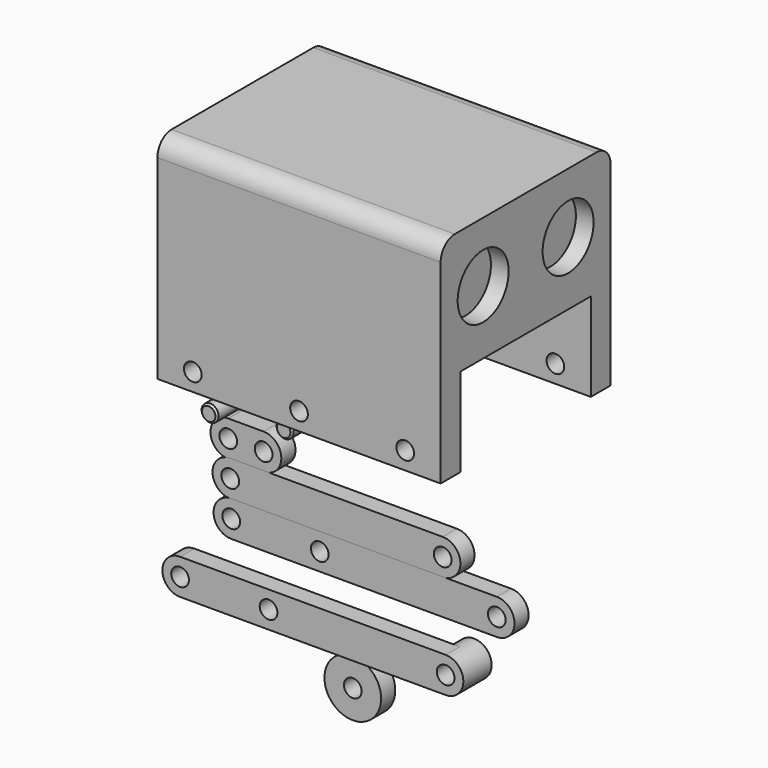
from build123d import *

# Parameters (mm, degrees)
F1_R       = 2.5
F2_DEPTH   = 5
F3_R       = 2.5
F4_DEPTH   = 5
F5_R       = 2.5
F6_DEPTH   = 5
F8_W       = 80
F8_H       = 60
F9_DEPTH   = 60
F10_R      = 2.5
F11_DEPTH  = 60.001
F12_R      = 2.4
F13_DEPTH  = 15
F14_R      = 8
F14_R_2    = 2.5
F15_DEPTH  = 5
F16_R      = 2.5
F17_DEPTH  = 10
F18_R      = 2.5
F19_DEPTH  = 5
F20_R      = 2.4
F21_DEPTH  = 10
F22_W      = 66
F22_H      = 46
F23_DEPTH  = 25
F24_W      = 46
F24_H      = 25
F25_DEPTH  = 94.5984731126
F26_R      = 9
F27_DEPTH  = 5
F28_R      = 5
F29_SIZE   = 0.5
F29_2_SIZE = 0.5


with BuildPart() as f2:
    # F1 (on Front) → F2 (new body)
    with BuildSketch(Plane.XZ):
        with BuildLine():
            Line((10, 5), (0, 5))
            ThreePointArc((0, 5), (-5, 0), (0, -5))
            Line((0, -5), (10, -5))
            ThreePointArc((10, -5), (15, 0), (10, 5))
        make_face()
        Circle(F1_R, mode=Mode.SUBTRACT)
        with Locations((10, 0)):
            Circle(F1_R, mode=Mode.SUBTRACT)
    extrude(amount=F2_DEPTH)


with BuildPart() as f4:
    # F3 (on Front) → F4 (new body)
    with BuildSketch(Plane.XZ):
        with BuildLine():
            Line((60.5706622079, -4.732673876), (0.5706622079, -4.732673876))
            ThreePointArc((0.5706622079, -4.732673876), (-4.4293377921, -9.732673876), (0.5706622079, -14.732673876))
            Line((0.5706622079, -14.732673876), (60.5706622079, -14.732673876))
            ThreePointArc((60.5706622079, -14.732673876), (65.5706622079, -9.732673876), (60.5706622079, -4.732673876))
        make_face()
        with Locations((0.5706622079, -9.732673876)):
            Circle(F3_R, mode=Mode.SUBTRACT)
        with Locations((60.5706622079, -9.732673876)):
            Circle(F3_R, mode=Mode.SUBTRACT)
    extrude(amount=F4_DEPTH)


with BuildPart() as f6:
    # F5 (on Front) → F6 (new body)
    with BuildSketch(Plane.XZ):
        with BuildLine():
            Line((75.8570737601, -14.6626018733), (0.8570737601, -14.6626018733))
            ThreePointArc((0.8570737601, -14.6626018733), (-4.1429262399, -19.6626018733), (0.8570737601, -24.6626018733))
            Line((0.8570737601, -24.6626018733), (75.8570737601, -24.6626018733))
            ThreePointArc((75.8570737601, -24.6626018733), (80.8570737601, -19.6626018733), (75.8570737601, -14.6626018733))
        make_face()
        with Locations((0.8570737601, -19.6626018733)):
            Circle(F5_R, mode=Mode.SUBTRACT)
        with Locations((25.8570737601, -19.6626018733)):
            Circle(F5_R, mode=Mode.SUBTRACT)
        with Locations((75.8570737601, -19.6626018733)):
            Circle(F5_R, mode=Mode.SUBTRACT)
    extrude(amount=F6_DEPTH)


with BuildPart() as f9:
    # F8 (on offset) → F9 (new body)
    with BuildSketch(Plane.XY.offset(25)):
        with Locations((40, 0)):
            Rectangle(F8_W, F8_H)
    extrude(amount=F9_DEPTH)

    # F10 (on face) → F11 (cut, through all)
    with BuildSketch(Plane.XZ.offset(30)):
        with Locations((10, 30)):
            Circle(F10_R)
        with Locations((70, 30)):
            Circle(F10_R)
        with Locations((40, 30)):
            Circle(F10_R)
    extrude(amount=-F11_DEPTH, mode=Mode.SUBTRACT)

    # F22 (on face) → F23 (cut)
    with BuildSketch(Plane(origin=(0, 0, 25), x_dir=(1, 0, 0), z_dir=(0, 0, -1))):
        with Locations((40, 0)):
            Rectangle(F22_W, F22_H)
    extrude(amount=-F23_DEPTH, mode=Mode.SUBTRACT)

    # F24 (on face) → F25 (cut, through all)
    with BuildSketch(Plane.YZ.offset(80)):
        with Locations((0, 37.5)):
            Rectangle(F24_W, F24_H)
    extrude(amount=-F25_DEPTH, mode=Mode.SUBTRACT)

    # F26 (on face) → F27 (cut)
    with BuildSketch(Plane.YZ.offset(80)):
        with Locations((-15, 68)):
            Circle(F26_R)
        with Locations((15, 68)):
            Circle(F26_R)
    extrude(amount=-F27_DEPTH, mode=Mode.SUBTRACT)

    # F28
    f28_edges = [f9.edges().sort_by_distance(p)[0] for p in [
        (40, 30, 85),
        (40, -30, 85),
    ]]
    fillet(f28_edges, radius=F28_R)


with BuildPart() as f13:
    # F12 (on Front) → F13 (new body)
    with BuildSketch(Plane.XZ):
        with Locations((2.488047583, 11.0218990594)):
            Circle(F12_R)
    extrude(amount=F13_DEPTH)

    # F29
    f29_edges = [f13.edges().sort_by_distance(p)[0] for p in [
        (0.088048, -15, 11.021899),
        (0.088048, 0, 11.021899),
    ]]
    chamfer(f29_edges, length=F29_SIZE)


with BuildPart() as f15:
    # F14 (on Front) → F15 (new body)
    with BuildSketch(Plane.XZ):
        with Locations((35.1786203682, -50.5970679224)):
            Circle(F14_R)
        with Locations((35.1786203682, -50.5970679224)):
            Circle(F14_R_2, mode=Mode.SUBTRACT)
    extrude(amount=F15_DEPTH)


with BuildPart() as f17:
    # F16 (on Front) → F17 (new body)
    with BuildSketch(Plane.XZ):
        with BuildLine():
            Line((65.4025268874, -30.4613661766), (-9.5974731126, -30.4613661766))
            ThreePointArc((-9.5974731126, -30.4613661766), (-14.5974731126, -35.4613661766), (-9.5974731126, -40.4613661766))
            Line((-9.5974731126, -40.4613661766), (65.4025268874, -40.4613661766))
            ThreePointArc((65.4025268874, -40.4613661766), (70.4025268874, -35.4613661766), (65.4025268874, -30.4613661766))
        make_face()
        with Locations((-9.5974731126, -35.4613661766)):
            Circle(F16_R, mode=Mode.SUBTRACT)
        with Locations((15.4025268874, -35.4613661766)):
            Circle(F16_R, mode=Mode.SUBTRACT)
        with Locations((65.4025268874, -35.4613661766)):
            Circle(F16_R, mode=Mode.SUBTRACT)
    extrude(amount=F17_DEPTH)

    # F18 (on face) → F19 (cut)
    with BuildSketch(Plane(origin=(0, 0, 0), x_dir=(-1, 0, 0), z_dir=(0, 1, 0))):
        with BuildLine():
            ThreePointArc((9.5974731126, -40.4613661766), (14.5974731126, -35.4613661766), (9.5974731126, -30.4613661766))
            Line((9.5974731126, -30.4613661766), (-65.4025268874, -30.4613661766))
            ThreePointArc((-65.4025268874, -30.4613661766), (-60.4025268874, -35.4613661766), (-65.4025268874, -40.4613661766))
            Line((-65.4025268874, -40.4613661766), (9.5974731126, -40.4613661766))
        make_face()
        with Locations((-15.4025268874, -35.4613661766)):
            Circle(F18_R, mode=Mode.SUBTRACT)
        with Locations((9.5974731126, -35.4613661766)):
            Circle(F18_R, mode=Mode.SUBTRACT)
    extrude(amount=-F19_DEPTH, mode=Mode.SUBTRACT)


with BuildPart() as f21:
    # F20 (on Front) → F21 (new body)
    with BuildSketch(Plane.XZ):
        with Locations((19.6736566722, 10.5378469452)):
            Circle(F20_R)
    extrude(amount=F21_DEPTH)

    # F29#2
    f29_2_edges = [f21.edges().sort_by_distance(p)[0] for p in [
        (17.273657, -10, 10.537847),
        (17.273657, 0, 10.537847),
    ]]
    chamfer(f29_2_edges, length=F29_2_SIZE)


solid = Compound([f2.part, f4.part, f6.part, f9.part, f13.part, f15.part, f17.part, f21.part])
